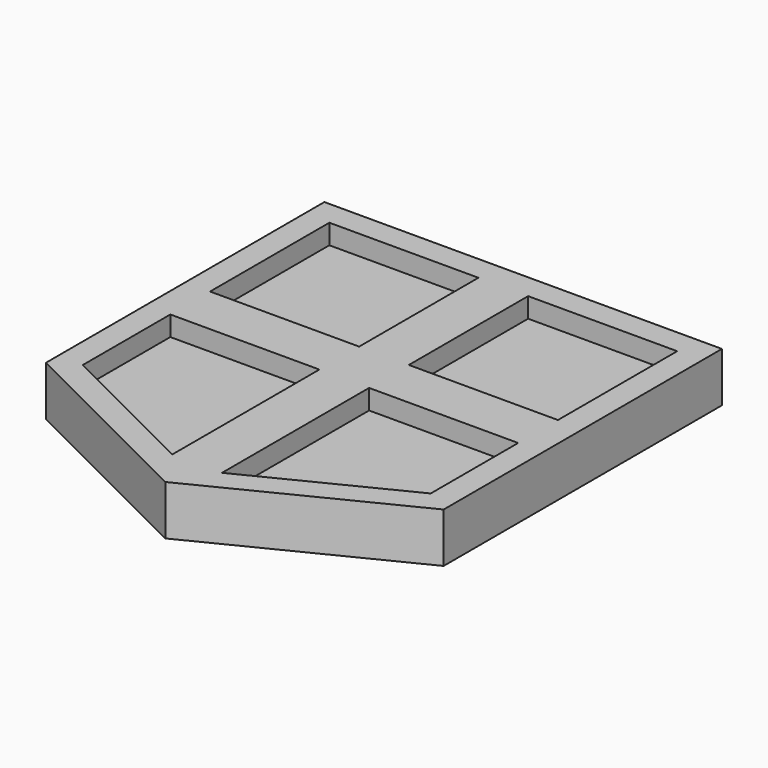
from build123d import *

# Parameters (mm, degrees)
F0_W     = 50.8
F0_H     = 50.8
F1_DEPTH = 12.7
F2_W     = 38.1
F2_H     = 38.1
F4_DEPTH = 5.08
F5_DEPTH = 5.08


with BuildPart() as f1:
    # F0 (on Top) → F1 (new body)
    with BuildSketch(Plane.XY):
        with Locations((-25.4, 25.4)):
            Rectangle(F0_W, F0_H)
        with Locations((25.4, 25.4)):
            Rectangle(F0_W, F0_H)
        Polygon((50.8, 0), (0, 0), (0, -63.5), (50.8, -38.1), align=None)
        Polygon((0, -63.5), (0, 0), (-50.8, 0), (-50.8, -38.1), align=None)
    extrude(amount=F1_DEPTH)

    # F2 (on face) → F4 (cut)
    with BuildSketch(Plane.XY.offset(12.7)):
        with Locations((-25.4, 25.4)):
            Rectangle(F2_W, F2_H)
        with Locations((25.4, 25.4)):
            Rectangle(F2_W, F2_H)
    extrude(amount=-F4_DEPTH, mode=Mode.SUBTRACT)

    # F3 (on face) → F5 (cut)
    with BuildSketch(Plane.XY.offset(12.7)):
        Polygon((-6.35, -6.35), (-44.45, -6.35), (-44.45, -34.29), (-6.35, -53.34), align=None)
        Polygon((6.35, -6.35), (6.35, -53.34), (44.45, -34.29), (44.45, -6.35), align=None)
    extrude(amount=-F5_DEPTH, mode=Mode.SUBTRACT)


solid = f1.part
